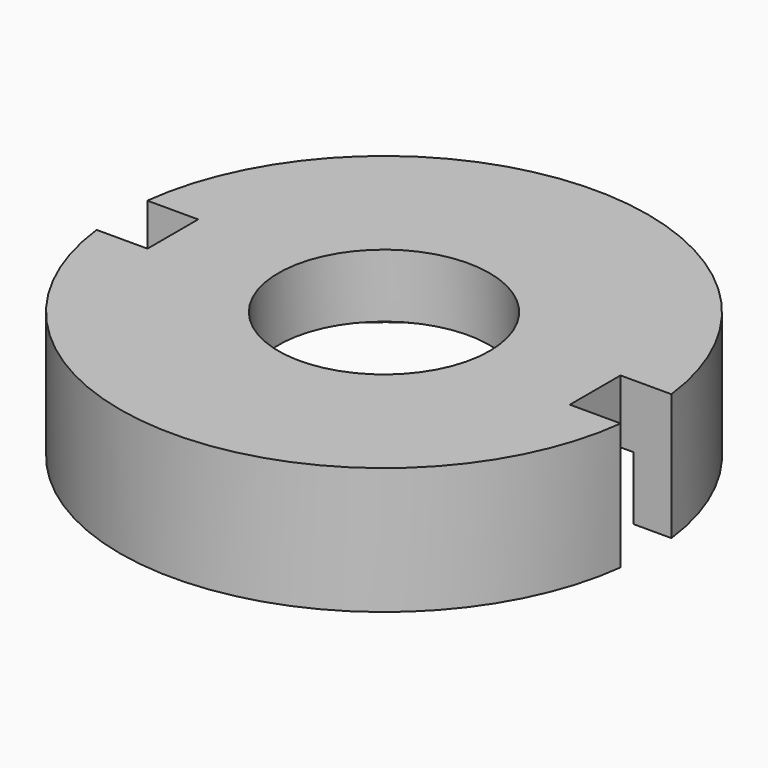
from build123d import *

# Parameters (mm, degrees)
F0_R     = 21.4249
F0_R_2   = 15
F0_R_3   = 10
F1_DEPTH = 6
F0_R_4   = 25
F2_DEPTH = 12
F4_W     = 10
F4_H     = 6
F5_DEPTH = 25


with BuildPart() as f1:
    # F0 (on Top) → F1 (new body)
    with BuildSketch(Plane.XY):
        Circle(F0_R)
        Circle(F0_R_2, mode=Mode.SUBTRACT)
        Circle(F0_R_2)
        Circle(F0_R_3, mode=Mode.SUBTRACT)
    extrude(amount=-F1_DEPTH)

    # F0 (on Top) → F2 (join)
    with BuildSketch(Plane.XY):
        Circle(F0_R_4)
        Circle(F0_R, mode=Mode.SUBTRACT)
    extrude(amount=-F2_DEPTH)

    # F4 (on Top) → F5 (cut)
    with BuildSketch(Plane.XY):
        with Locations((25, 0)):
            Rectangle(F4_W, F4_H)
        with Locations((-25, 0)):
            Rectangle(F4_W, F4_H)
    extrude(amount=-F5_DEPTH, mode=Mode.SUBTRACT)


solid = f1.part
